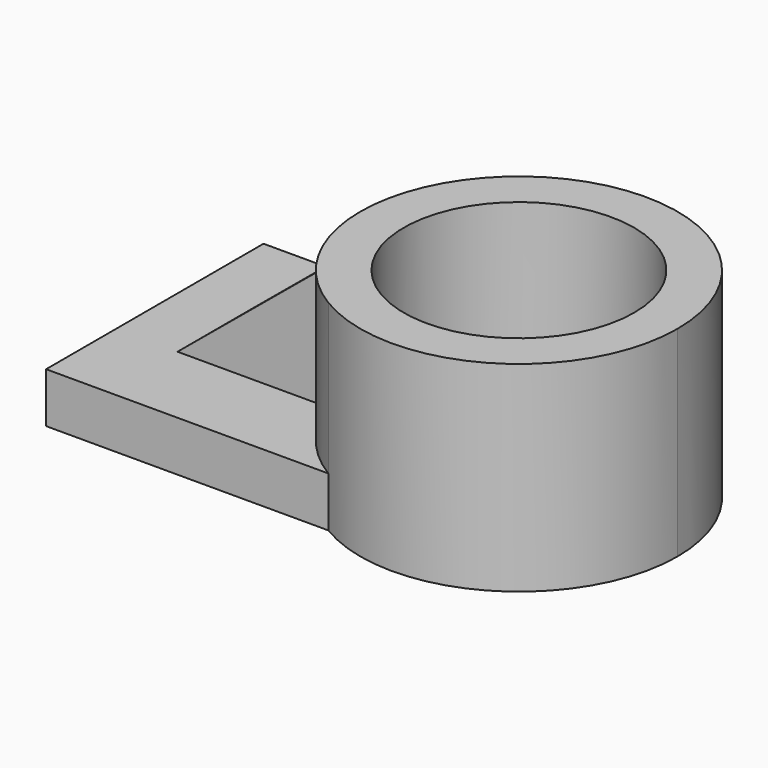
from build123d import *

# Parameters (mm, degrees)
F1_DEPTH = 12.7
F0_R     = 29.196285
F2_DEPTH = 50.8
F4_DEPTH = 12.7


with BuildPart() as f1:
    # F0 (on Top) → F1 (new body)
    with BuildSketch(Plane.XY):
        with BuildLine():
            Line((25.401515, 34.4395), (-46.141323, 34.4395))
            Line((-46.141323, 34.4395), (-46.141323, -34.4395))
            Line((-46.141323, -34.4395), (25.401515, -34.4395))
            ThreePointArc((25.401515, -34.4395), (5.939099, 0), (25.401515, 34.4395))
        make_face()
    extrude(amount=F1_DEPTH)

    # F0 (on Top) → F2 (join)
    with BuildSketch(Plane.XY):
        with BuildLine():
            ThreePointArc((86.343547, 0), (65.920509, 35.000037), (25.401515, 34.4395))
            ThreePointArc((25.401515, 34.4395), (5.939099, 0), (25.401515, -34.4395))
            ThreePointArc((25.401515, -34.4395), (65.920509, -35.000037), (86.343547, 0))
        make_face()
        with Locations((46.141323, 0)):
            Circle(F0_R, mode=Mode.SUBTRACT)
    extrude(amount=F2_DEPTH)

    # F3 (on Front) → F4 (join, symmetric)
    with BuildSketch(Plane.XZ):
        Polygon((6.308553, 12.938597), (6.308553, 43.192081), (-30.223956, 12.938597), align=None)
    extrude(amount=F4_DEPTH, both=True)


solid = f1.part
